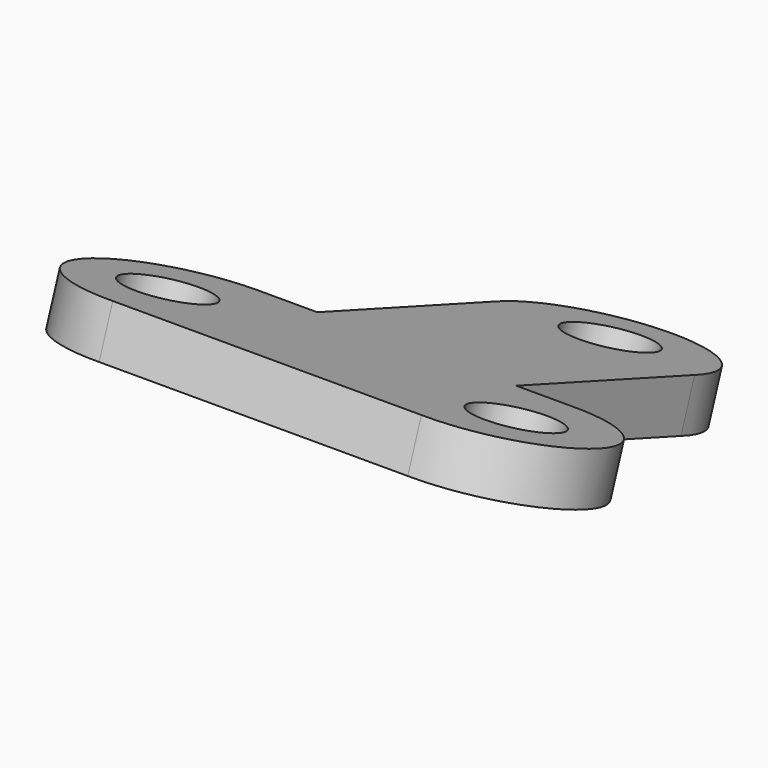
from build123d import *

# Parameters (mm, degrees)
SKETCH001_AS_DRAWN_R                   = 2.5
EXTRUDE_DEPTH                          = 3
EXTRUDE_ONTO_SKETCH001_PLACEMENT_ANGLE = 20


with BuildPart() as part:
    # Sketch001 as drawn → Extrude (new)
    with BuildSketch(Plane.XY):
        with BuildLine():
            ThreePointArc((5.996666, 20.3), (0, 26.5), (-5.996666, 20.3))
            Line((-5.996666, 20.3), (-5.996666, 17))
            Line((-5.996666, 17), (-5.996666, 6))
            Line((-5.996666, 6), (-9.7, 6))
            ThreePointArc((-9.7, 6), (-15.5, -0.2), (-9.3, -6))
            Line((-9.3, -6), (-6, -6))
            Line((-6, -6), (6, -6))
            Line((6, -6), (9.3, -6))
            ThreePointArc((9.3, -6), (15.503332, 0), (9.3, 6))
            Line((5.996666, 6), (9.3, 6))
            Line((5.996666, 17), (5.996666, 6))
            Line((5.996666, 20.3), (5.996666, 17))
        make_face()
        with Locations((0, 21.5)):
            Circle(SKETCH001_AS_DRAWN_R, mode=Mode.SUBTRACT)
        with Locations((-10.5, 0)):
            Circle(SKETCH001_AS_DRAWN_R, mode=Mode.SUBTRACT)
        with Locations((10.5, 0)):
            Circle(SKETCH001_AS_DRAWN_R, mode=Mode.SUBTRACT)
    extrude(amount=EXTRUDE_DEPTH)


with BuildPart() as part_1:
    # Extrude onto Sketch001 placement: moved
    add(part.part.moved(Location((0, 72.842742, 200.133789))).rotate(Axis((0, 72.842742, 200.133789), (-1, 0, 0)), EXTRUDE_ONTO_SKETCH001_PLACEMENT_ANGLE))


solid = part_1.part
